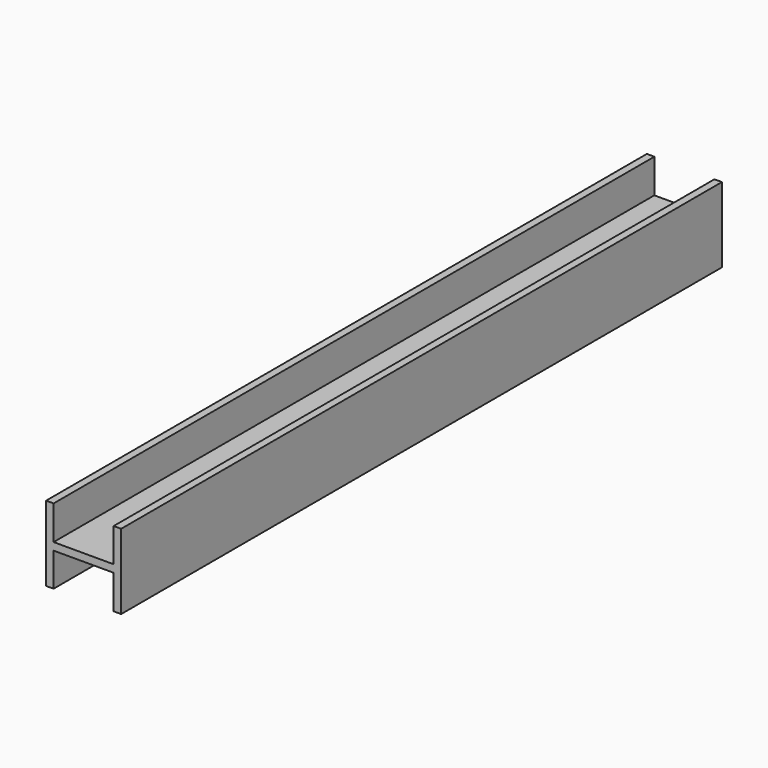
from build123d import *

# Parameters (mm, degrees)
F0_W     = 10
F0_H     = 5
F0_H_2   = 44.692295
F0_H_3   = 45.307705
F0_H_4   = 45.157636
F0_H_5   = 44.842364
F1_DEPTH = 1000


with BuildPart() as f1:
    # F0 (on Front) → F1 (new body)
    with BuildSketch(Plane.XZ):
        Polygon((40.000761, 0), (0, 0), (-40.000761, 0), (-40.000761, -5), (0, -5), (40.000761, -5), align=None)
        Polygon((-40.000761, 0), (0, 0), (40.000761, 0), (40.000761, 5), (0, 5), (-40.000761, 5), align=None)
        with Locations((-45.000761, -2.5)):
            Rectangle(F0_W, F0_H)
        with Locations((-45.000761, 2.5)):
            Rectangle(F0_W, F0_H)
        with Locations((45.000761, 2.5)):
            Rectangle(F0_W, F0_H)
        with Locations((45.000761, -2.5)):
            Rectangle(F0_W, F0_H)
        with Locations((-45.000761, -27.346147)):
            Rectangle(F0_W, F0_H_2)
        with Locations((-45.000761, 27.653852)):
            Rectangle(F0_W, F0_H_3)
        with Locations((45.000761, -27.578818)):
            Rectangle(F0_W, F0_H_4)
        with Locations((45.000761, 27.421182)):
            Rectangle(F0_W, F0_H_5)
    extrude(amount=F1_DEPTH)


solid = f1.part
